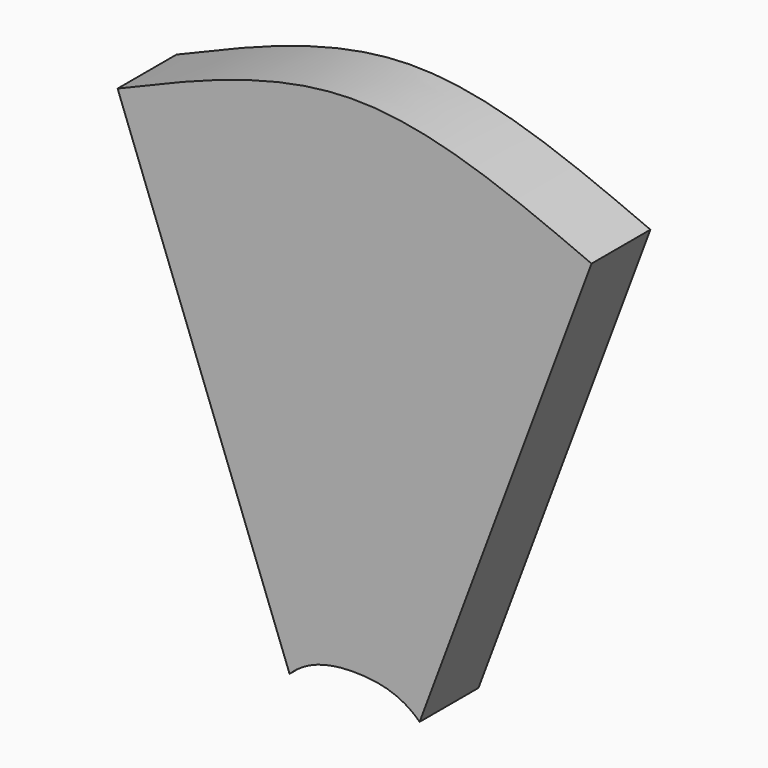
from build123d import *

# Parameters (mm, degrees)
F1_DEPTH = 19.812


with BuildPart() as f1:
    # F0 (on Front) → F1 (new body)
    with BuildSketch(Plane.XZ):
        with BuildLine():
            add(Edge.make_bspline(
                [(-63.8078054561, 17.0248520457), (-42.5385370485, 26.0813439586), (0, 44.1943280626), (42.5385370485, 26.0813439586), (63.8078054561, 17.0248520457)],
                knots=[0, 0, 0, 0, 0.5, 1, 1, 1, 1], degree=3))
            Line((-63.8078054561, 17.0248520457), (-17.5057819184, -106.673365469))
            add(Edge.make_bspline(
                [(-17.5057819184, -106.673365469), (-12.7000012133, -101.9026819764), (1.2133e-06, -99.2152177412), (12.6999987867, -101.9026867348), (17.5057819184, -106.673365469)],
                knots=[0, 0, 0, 0, 0.5, 1, 1, 1, 1], degree=3))
            Line((17.5057819184, -106.673365469), (63.8078054561, 17.0248520457))
        make_face()
    extrude(amount=F1_DEPTH)


solid = f1.part
